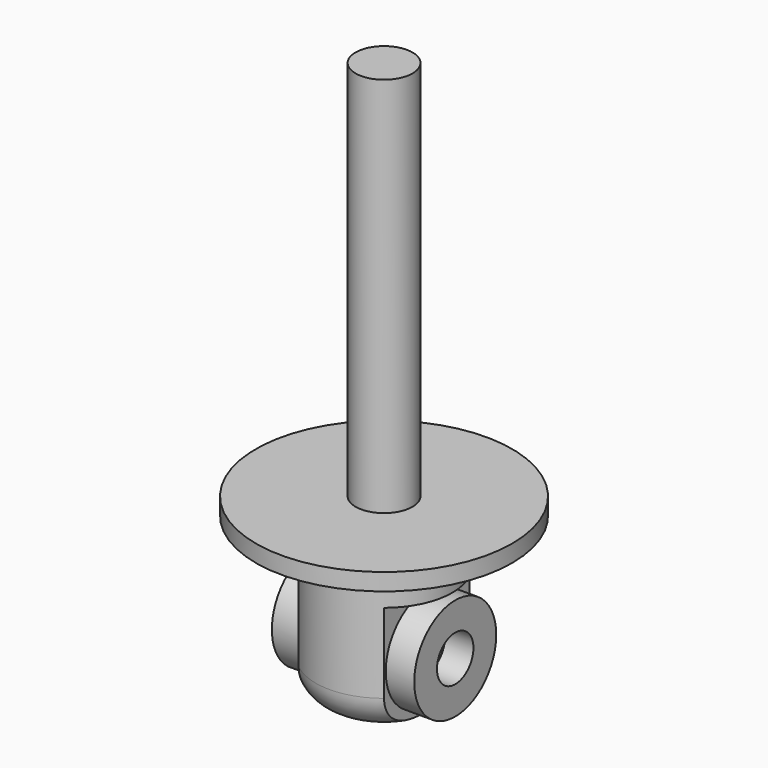
from build123d import *

# Parameters (mm, degrees)
F0_R      = 22.5
F1_DEPTH  = 3
F2_R      = 5
F3_DEPTH  = 70
F4_R      = 12
F5_DEPTH  = 28
F6_R      = 6
F7_W      = 19.57
F7_H      = 20
F8_DEPTH  = 12.5
F9_R      = 9
F9_R_2    = 4
F10_DEPTH = 12.5


with BuildPart() as f1:
    # F0 (on Top) → F1 (new body)
    with BuildSketch(Plane.XY):
        Circle(F0_R)
    extrude(amount=F1_DEPTH)

    # F2 (on Top) → F3 (join)
    with BuildSketch(Plane.XY):
        Circle(F2_R)
    extrude(amount=F3_DEPTH)

    # F4 (on face) → F5 (join)
    with BuildSketch(Plane(origin=(0, 0, 0), x_dir=(1, 0, 0), z_dir=(0, 0, -1))):
        Circle(F4_R)
    extrude(amount=F5_DEPTH)

    # F6
    f6_edges = [f1.edges().sort_by_distance(p)[0] for p in [
        (-12, 0, -28),
    ]]
    fillet(f6_edges, radius=F6_R)

    # F7 (on Front) → F8 (cut, symmetric)
    with BuildSketch(Plane.XZ):
        with Locations((17.285, -18)):
            Rectangle(F7_W, F7_H)
        with Locations((-17.285, -18)):
            Rectangle(F7_W, F7_H)
    extrude(amount=F8_DEPTH, both=True, mode=Mode.SUBTRACT)

    # F9 (on Right) → F10 (join, symmetric)
    with BuildSketch(Plane.YZ):
        with Locations((0, -18)):
            Circle(F9_R)
        with Locations((0, -18)):
            Circle(F9_R_2, mode=Mode.SUBTRACT)
    extrude(amount=F10_DEPTH, both=True)


solid = f1.part
